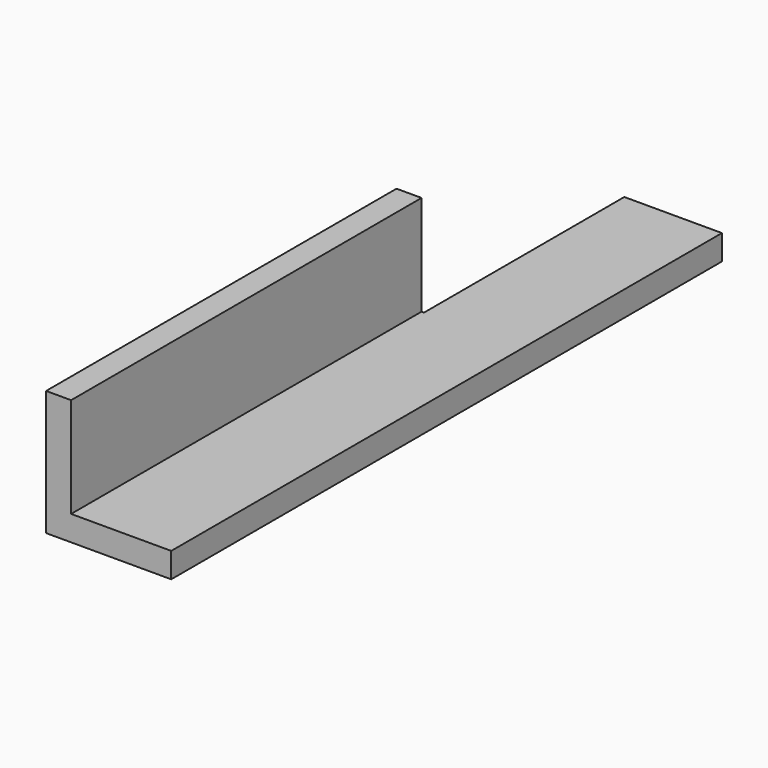
from build123d import *

# Parameters (mm, degrees)
F1_DEPTH = 55
F2_W     = 20
F2_H     = 10
F3_DEPTH = 2.2


with BuildPart() as f1:
    # F0 (on Front) → F1 (new body)
    with BuildSketch(Plane.XZ):
        Polygon((0, 10), (0, 0), (10, 0), (10, 2), (2, 2), (2, 10), align=None)
    extrude(amount=F1_DEPTH)

    # F2 (on face) → F3 (cut)
    with BuildSketch(Plane(origin=(0, 0, 0), x_dir=(0, -1, 0), z_dir=(-1, 0, 0))):
        with Locations((10, 5)):
            Rectangle(F2_W, F2_H)
    extrude(amount=-F3_DEPTH, mode=Mode.SUBTRACT)


solid = f1.part
